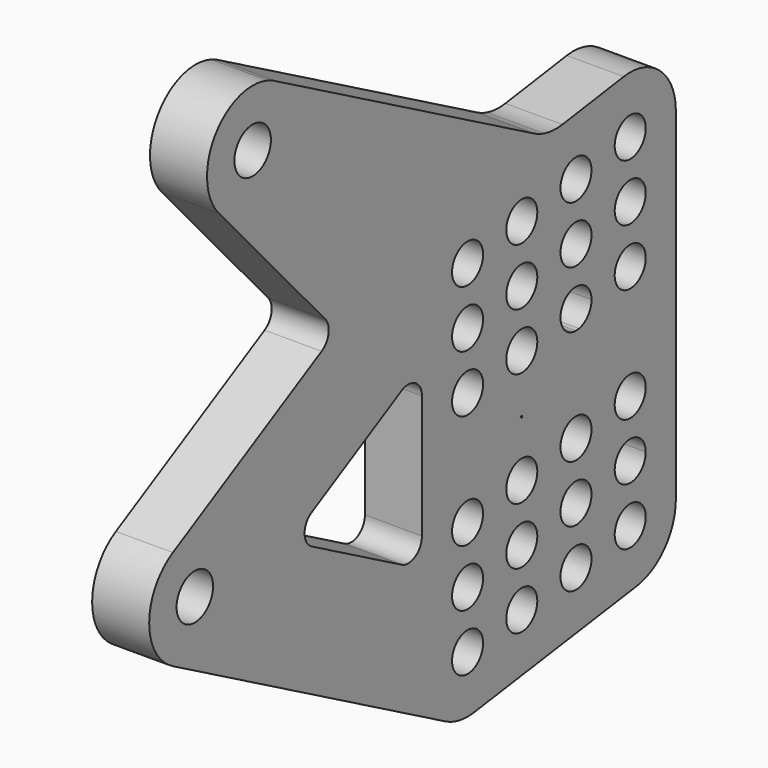
from build123d import *

# Parameters (mm, degrees)
F0_R     = 4
F0_R_2   = 3.4
F1_DEPTH = 10


with BuildPart() as f1:
    # F0 (on Right) → F1 (new body)
    with BuildSketch(Plane.YZ):
        with BuildLine():
            Line((47.677108, -50.710301), (83.328195, -45.710301))
            ThreePointArc((83.328195, -45.710301), (89.485461, -42.368894), (91.939306, -35.807221))
            Line((91.939306, -35.807221), (91.939306, 24.192779))
            ThreePointArc((91.939306, 24.192779), (88.490403, 31.748117), (80.522681, 34.091929))
            Line((80.522681, 34.091929), (67.093321, 32.17011))
            ThreePointArc((67.093321, 32.17011), (65.074623, 32.087401), (63.080502, 32.412149))
            ThreePointArc((63.080502, 32.412149), (61.944816, 32.791702), (60.86264, 33.30428))
            Line((60.86264, 33.30428), (4.3249, 64.356929))
            ThreePointArc((4.3249, 64.356929), (3.435792, 64.830914), (2.503502, 65.213024))
            ThreePointArc((2.503502, 65.213024), (-9.142416, 61.321845), (-8.237688, 49.076432))
            Line((-8.237688, 49.076432), (15.086959, 23.262908))
            ThreePointArc((15.086959, 23.262908), (15.818861, 20.750279), (14.29987, 18.619163))
            Line((14.29987, 18.619163), (-18.293867, 0.804326))
            ThreePointArc((-18.293867, 0.804326), (-23.497782, -7.960254), (-18.311843, -16.735482))
            Line((-18.311843, -16.735482), (41.474164, -49.572201))
            ThreePointArc((41.474164, -49.572201), (44.48357, -50.643035), (47.677108, -50.710301))
        make_face()
        with Locations((-13.497787, -7.970503)):
            Circle(F0_R, mode=Mode.SUBTRACT)
        with BuildLine():
            ThreePointArc((31.849396, 5.418782), (34.818502, 5.366689), (36.28822, 2.786334))
            Line((36.28822, 2.786334), (36.28822, -18.835382))
            ThreePointArc((36.28822, -18.835382), (34.815857, -21.417304), (31.844003, -21.464876))
            Line((31.844003, -21.464876), (12.112738, -10.627725))
            ThreePointArc((12.112738, -10.627725), (10.556957, -7.995156), (12.118131, -5.365782))
            Line((12.118131, -5.365782), (31.849396, 5.418782))
        make_face(mode=Mode.SUBTRACT)
        with Locations((46.28822, -40.807221)):
            Circle(F0_R_2, mode=Mode.SUBTRACT)
        with Locations((58.171915, -39.140554)):
            Circle(F0_R_2, mode=Mode.SUBTRACT)
        with Locations((70.055611, -37.473888)):
            Circle(F0_R_2, mode=Mode.SUBTRACT)
        with Locations((46.28822, -30.807221)):
            Circle(F0_R_2, mode=Mode.SUBTRACT)
        with Locations((58.171915, -29.140554)):
            Circle(F0_R_2, mode=Mode.SUBTRACT)
        with Locations((70.055611, -27.473888)):
            Circle(F0_R_2, mode=Mode.SUBTRACT)
        with Locations((81.939306, -35.807221)):
            Circle(F0_R_2, mode=Mode.SUBTRACT)
        with BuildLine():
            ThreePointArc((78.588797, -26.385221), (78.580112, -26.332397), (78.572259, -26.279443))
            ThreePointArc((78.572259, -26.279443), (81.702621, -22.415469), (85.339306, -25.807221))
            ThreePointArc((85.339306, -25.807221), (82.229364, -29.194826), (78.588797, -26.385221))
        make_face(mode=Mode.SUBTRACT)
        with Locations((46.28822, -20.807221)):
            Circle(F0_R_2, mode=Mode.SUBTRACT)
        with Locations((58.171915, -19.140554)):
            Circle(F0_R_2, mode=Mode.SUBTRACT)
        Polygon((58.171915, -9.503709), (57.880681, -9.181399), (58.171915, -9.140554), align=None, mode=Mode.SUBTRACT)
        with Locations((70.055611, -17.473888)):
            Circle(F0_R_2, mode=Mode.SUBTRACT)
        with Locations((46.28822, -0.807221)):
            Circle(F0_R_2, mode=Mode.SUBTRACT)
        with Locations((58.171915, 0.859446)):
            Circle(F0_R_2, mode=Mode.SUBTRACT)
        with BuildLine():
            ThreePointArc((70.725603, -0.807221), (70.392261, -0.85718), (70.055611, -0.873888))
            ThreePointArc((70.055611, -0.873888), (69.718961, -0.85718), (69.385619, -0.807221))
            ThreePointArc((69.385619, -0.807221), (67.90131, 5.156509), (73.455611, 2.526112))
            ThreePointArc((73.455611, 2.526112), (72.686007, 0.371811), (70.725603, -0.807221))
        make_face(mode=Mode.SUBTRACT)
        with Locations((81.939306, -15.807221)):
            Circle(F0_R_2, mode=Mode.SUBTRACT)
        with Locations((81.939306, 4.192779)):
            Circle(F0_R_2, mode=Mode.SUBTRACT)
        with Locations((-0.817978, 55.780752)):
            Circle(F0_R, mode=Mode.SUBTRACT)
        with Locations((46.28822, 9.192779)):
            Circle(F0_R_2, mode=Mode.SUBTRACT)
        with Locations((58.171915, 10.859446)):
            Circle(F0_R_2, mode=Mode.SUBTRACT)
        with Locations((46.28822, 19.192779)):
            Circle(F0_R_2, mode=Mode.SUBTRACT)
        with Locations((58.171915, 20.859446)):
            Circle(F0_R_2, mode=Mode.SUBTRACT)
        with Locations((70.055611, 12.526112)):
            Circle(F0_R_2, mode=Mode.SUBTRACT)
        with Locations((70.055611, 22.526112)):
            Circle(F0_R_2, mode=Mode.SUBTRACT)
        with Locations((81.939306, 14.192779)):
            Circle(F0_R_2, mode=Mode.SUBTRACT)
        with Locations((81.939306, 24.192779)):
            Circle(F0_R_2, mode=Mode.SUBTRACT)
    extrude(amount=F1_DEPTH)


solid = f1.part
